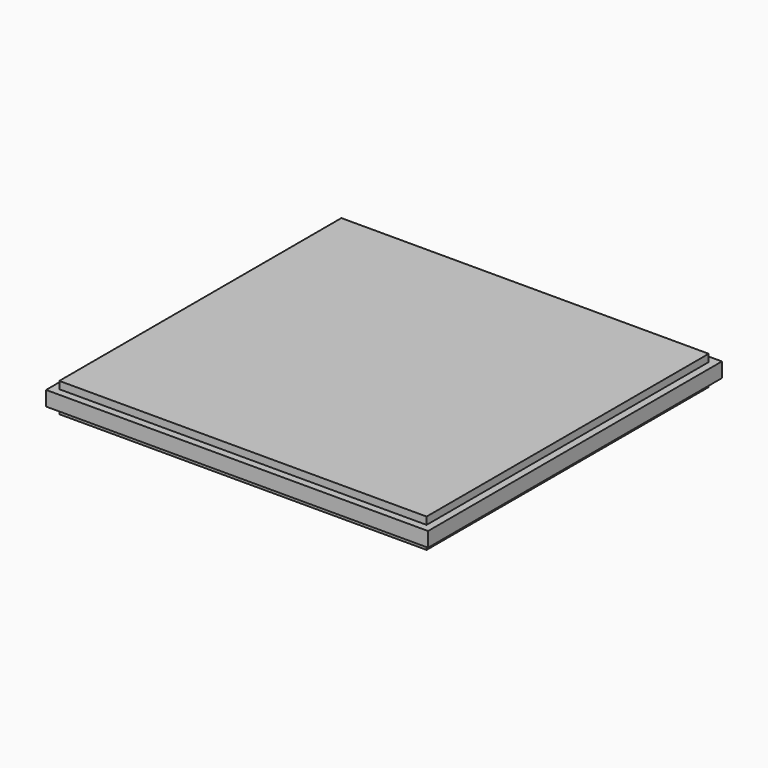
from build123d import *

# Parameters (mm, degrees)
F0_W     = 317.5
F0_H     = 304.8
F1_DEPTH = 25.4
F2_W     = 317.5
F2_H     = 12.7
F3_DEPTH = 6.35
F4_W     = 317.5
F4_H     = 12.7
F5_DEPTH = 6.35
F8_DEPTH = 6.35
F9_DEPTH = 6.35


with BuildPart() as f1:
    # F0 (on Top) → F1 (new body)
    with BuildSketch(Plane.XY):
        Rectangle(F0_W, F0_H)
    extrude(amount=F1_DEPTH)

    # F2 (on face) → F3 (join)
    with BuildSketch(Plane(origin=(0, 152.4, 0), x_dir=(-1, 0, 0), z_dir=(0, 1, 0))):
        with Locations((0, 12.7)):
            Rectangle(F2_W, F2_H)
    extrude(amount=F3_DEPTH)

    # F4 (on face) → F5 (join)
    with BuildSketch(Plane.XZ.offset(152.4)):
        with Locations((0, 12.7)):
            Rectangle(F4_W, F4_H)
    extrude(amount=F5_DEPTH)

    # F7 (on face) → F8 (join)
    with BuildSketch(Plane(origin=(-158.75, 0, 0), x_dir=(0, -1, 0), z_dir=(-1, 0, 0))):
        Polygon((-152.4, 19.05), (-158.75, 19.05), (-158.75, 6.35), (-152.4, 6.35), (152.4, 6.35), (158.75, 6.35), (158.75, 19.05), (152.4, 19.05), align=None)
    extrude(amount=F8_DEPTH)

    # F6 (on face) → F9 (join)
    with BuildSketch(Plane.YZ.offset(158.75)):
        Polygon((-152.4, 19.05), (-158.75, 19.05), (-158.75, 6.35), (-152.4, 6.35), (152.4, 6.35), (158.75, 6.35), (158.75, 19.05), (152.4, 19.05), align=None)
    extrude(amount=F9_DEPTH)


solid = f1.part
